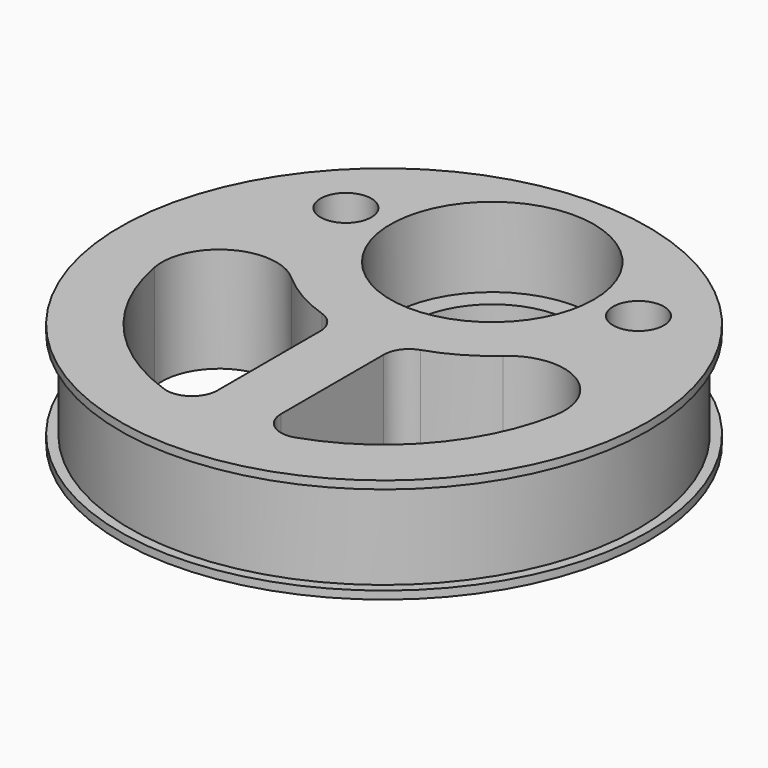
from build123d import *

# Parameters (mm, degrees)
SKETCH005_R       = 41.5
SKETCH005_R_2     = 12.75
PAD001_DEPTH      = 16.5
CYLINDER003_R     = 16
CYLINDER003_DEPTH = 25.2
CYLINDER008_R     = 4
CYLINDER008_DEPTH = 25
CYLINDER009_R     = 4
CYLINDER009_DEPTH = 25
POCKET_START      = -1.25
SKETCH084_R       = 48
SKETCH084_R_2     = 40
POCKET_DEPTH      = 14


with BuildPart() as part:
    # Sketch005 → Pad001 (new body)
    with BuildSketch(Plane.XY):
        with Locations((0, -21.25)):
            Circle(SKETCH005_R)
        Circle(SKETCH005_R_2, mode=Mode.SUBTRACT)
        with BuildLine():
            ThreePointArc((-31.480397, -26.993223), (-24.225688, -42.15732), (-10.285714, -51.551882))
            ThreePointArc((-10.285714, -51.551882), (-6.670071, -51.015521), (-5, -47.764147))
            Line((-5, -27.568098), (-5, -47.764147))
            ThreePointArc((-5, -27.568098), (-5.762291, -25.219217), (-7.758621, -23.765601))
            ThreePointArc((-16.637158, -18.660251), (-12.462129, -21.672456), (-7.758621, -23.765601))
            ThreePointArc((-16.637158, -18.660251), (-27.032318, -17.53007), (-31.480397, -26.993223))
        make_face(mode=Mode.SUBTRACT)
        with BuildLine():
            ThreePointArc((10.285714, -51.551882), (24.225688, -42.15732), (31.480397, -26.993223))
            ThreePointArc((31.480397, -26.993223), (27.032318, -17.53007), (16.637158, -18.660251))
            ThreePointArc((7.758621, -23.765601), (12.462129, -21.672456), (16.637158, -18.660251))
            ThreePointArc((7.758621, -23.765601), (5.762291, -25.219217), (5, -27.568098))
            Line((5, -27.568098), (5, -47.764147))
            ThreePointArc((5, -47.764147), (6.670071, -51.015521), (10.285714, -51.551882))
        make_face(mode=Mode.SUBTRACT)
    extrude(amount=-PAD001_DEPTH)

    # Cylinder003 → Cylinder003 (cut)
    with BuildSketch(Plane.XY.offset(-12.5)):
        Circle(CYLINDER003_R)
    extrude(amount=CYLINDER003_DEPTH, mode=Mode.SUBTRACT)

    # Cylinder008 → Cylinder008 (cut)
    with BuildSketch(Plane(origin=(23, 0, -13), x_dir=(1, 0, 0), z_dir=(0, 0, 1))):
        Circle(CYLINDER008_R)
    extrude(amount=CYLINDER008_DEPTH, mode=Mode.SUBTRACT)

    # Cylinder009 → Cylinder009 (cut)
    with BuildSketch(Plane(origin=(-23, 0, -13), x_dir=(1, 0, 0), z_dir=(0, 0, 1))):
        Circle(CYLINDER009_R)
    extrude(amount=CYLINDER009_DEPTH, mode=Mode.SUBTRACT)

    # Sketch084 → Pocket (cut)
    with BuildSketch(Plane.XY.offset(POCKET_START)):
        with Locations((0, -21.25)):
            Circle(SKETCH084_R)
        with Locations((0, -21.25)):
            Circle(SKETCH084_R_2, mode=Mode.SUBTRACT)
    extrude(amount=-POCKET_DEPTH, mode=Mode.SUBTRACT)


solid = part.part
